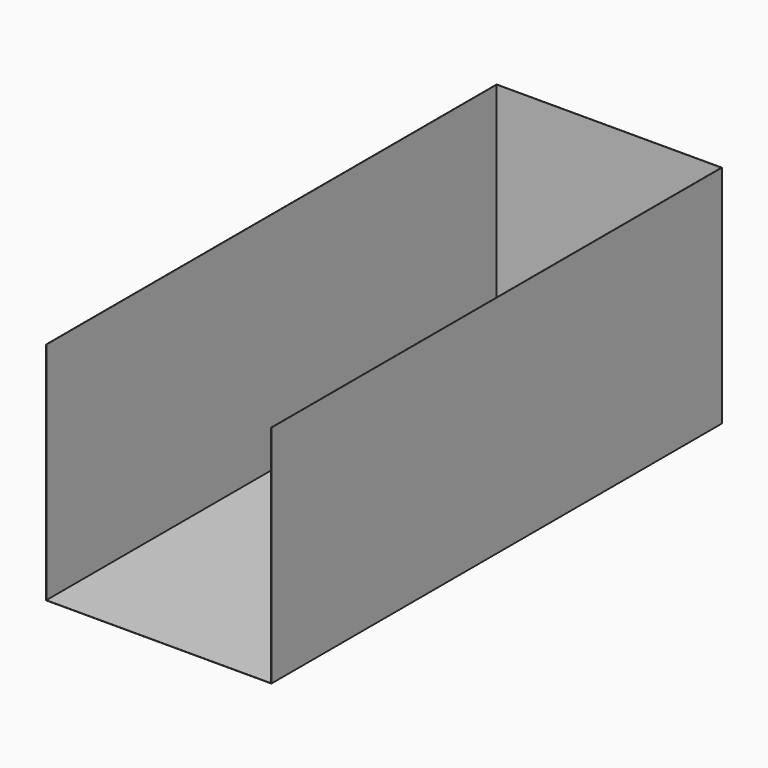
from build123d import *

# Parameters (mm, degrees)
F0_W     = 2438.4
F0_H     = 6096
F1_DEPTH = 2438.4
F2_T     = -2.54


with BuildPart() as f1:
    # F0 (on Top) → F1 (new body)
    with BuildSketch(Plane.XY):
        Rectangle(F0_W, F0_H)
    extrude(amount=F1_DEPTH)

    # F2
    f2_openings = [f1.faces().sort_by_distance(p)[0] for p in [
        (0, 0, 2438.4),
        (0, -3048, 1219.2),
    ]]
    offset(amount=F2_T, openings=f2_openings)


solid = f1.part
